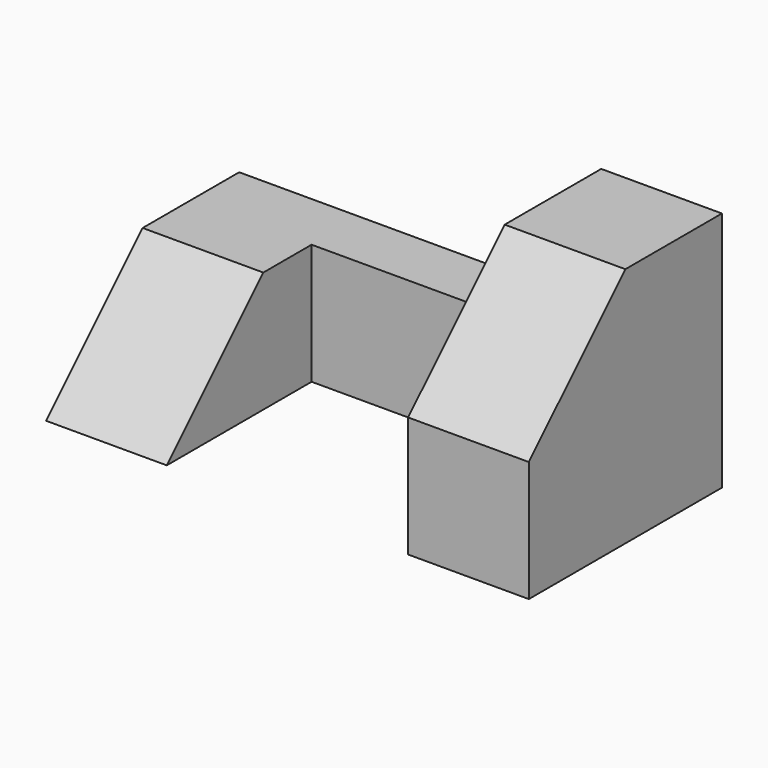
from build123d import *

# Parameters (mm, degrees)
F0_W     = 25.4
F0_H     = 25.4
F1_DEPTH = 12.7
F2_W     = 6.35
F2_H     = 12.7
F3_DEPTH = 38.1
F4_W     = 12.7
F4_H     = 12.7
F5_DEPTH = 19.05
F7_DEPTH = 12.7
F9_DEPTH = 12.7


with BuildPart() as f1:
    # F0 (on Right) → F1 (new body)
    with BuildSketch(Plane.YZ):
        with Locations((12.7, 12.7)):
            Rectangle(F0_W, F0_H)
    extrude(amount=F1_DEPTH)

    # F2 (on Right) → F3 (join)
    with BuildSketch(Plane.YZ):
        with Locations((22.225, 6.35)):
            Rectangle(F2_W, F2_H)
    extrude(amount=-F3_DEPTH)

    # F4 (on face) → F5 (join)
    with BuildSketch(Plane.XZ.offset(-19.05)):
        with Locations((-31.75, 6.35)):
            Rectangle(F4_W, F4_H)
    extrude(amount=F5_DEPTH)

    # F6 (on face) → F7 (cut)
    with BuildSketch(Plane.YZ.offset(12.7)):
        Polygon((12.7, 25.4), (0, 25.4), (0, 12.7), align=None)
    extrude(amount=-F7_DEPTH, mode=Mode.SUBTRACT)

    # F8 (on face) → F9 (cut)
    with BuildSketch(Plane.YZ.offset(-25.4)):
        Polygon((12.7, 12.7), (0, 12.7), (0, 0), align=None)
    extrude(amount=-F9_DEPTH, mode=Mode.SUBTRACT)


solid = f1.part
